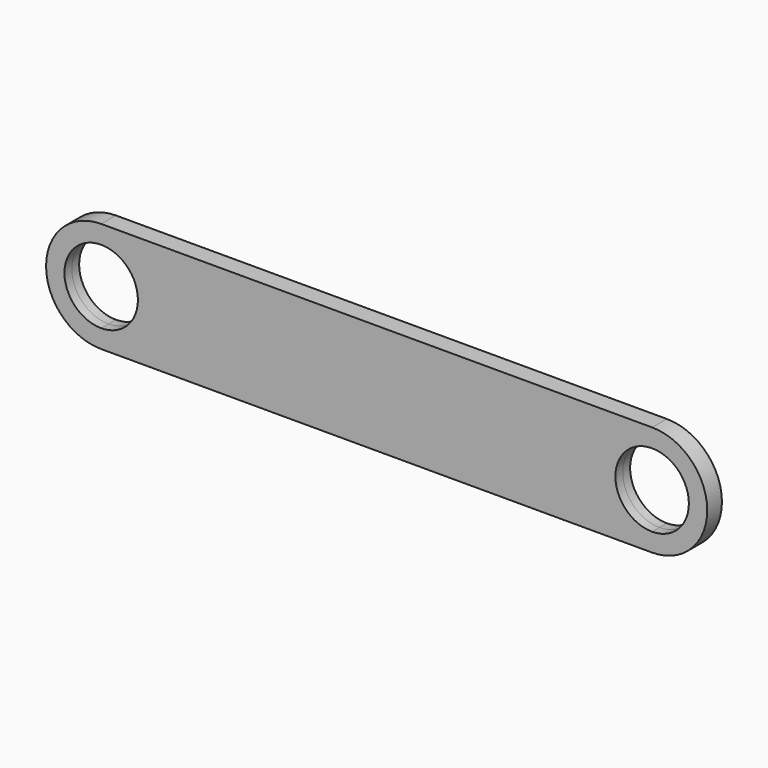
from build123d import *

# Parameters (mm, degrees)
F1_DEPTH = 2.5


with BuildPart() as f1:
    # F0 (on Front) → F1 (new body, symmetric)
    with BuildSketch(Plane.XZ):
        with BuildLine():
            Line((75, 15), (-75, 15))
            Line((-75, 15), (-75, 10))
            ThreePointArc((-75, 10), (-67.9289321881, 7.0710678119), (-65, 0))
            ThreePointArc((-65, 0), (-67.9289321881, -7.0710678119), (-75, -10))
            Line((-75, -10), (-75, -15))
            Line((-75, -15), (75, -15))
            Line((75, -15), (75, -10))
            ThreePointArc((75, -10), (65, 0), (75, 10))
            Line((75, 10), (75, 15))
        make_face()
        with BuildLine():
            Line((-75, 10), (-75, 15))
            ThreePointArc((-75, 15), (-90, 0), (-75, -15))
            Line((-75, -15), (-75, -10))
            ThreePointArc((-75, -10), (-85, 0), (-75, 10))
        make_face()
        with BuildLine():
            ThreePointArc((75, -15), (90, 0), (75, 15))
            Line((75, 15), (75, 10))
            ThreePointArc((75, 10), (82.0710678119, 7.0710678119), (85, 0))
            ThreePointArc((85, 0), (82.0710678119, -7.0710678119), (75, -10))
            Line((75, -10), (75, -15))
        make_face()
    extrude(amount=F1_DEPTH, both=True)


solid = f1.part
